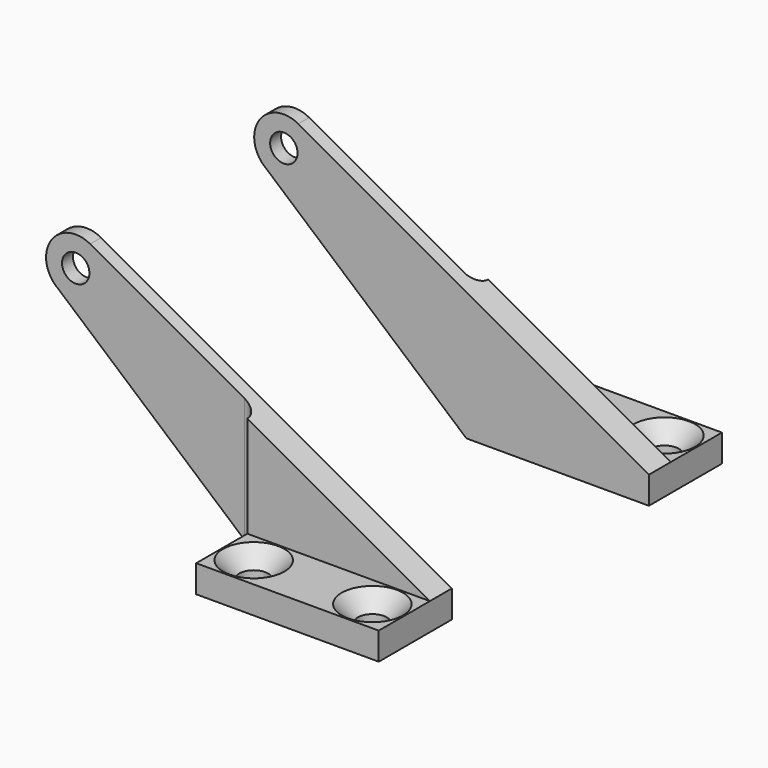
from build123d import *

# Parameters (mm, degrees)
F1_DEPTH        = 100
F3_R            = 3
F4_DEPTH        = 25
F6_DEPTH        = 6
F8_DEPTH        = 25
F10_DEPTH       = 3
F11_R           = 3
F12_D           = 6.3
F12_CSINK_D     = 13.44
F12_CSINK_ANGLE = 90


with BuildPart() as f1:
    # F0 (on Right) → F1 (new body)
    with BuildSketch(Plane.YZ):
        Polygon((0, 50), (0, 0), (50, 0), (50, 6), (6, 6), (6, 50), align=None)
    extrude(amount=-F1_DEPTH)

    # F3 (on face) → F4 (cut)
    with BuildSketch(Plane.XZ):
        with Locations((-80, 43)):
            Circle(F3_R)
    extrude(amount=-F4_DEPTH, mode=Mode.SUBTRACT)

    # F5 (on face) → F6 (cut)
    with BuildSketch(Plane(origin=(0, 0, 0), x_dir=(1, 0, 0), z_dir=(0, 0, -1))):
        Polygon((-40, -20), (-40, -6), (-100, -6), (-100, -50), (0, -50), (0, -20), align=None)
    extrude(amount=-F6_DEPTH, mode=Mode.SUBTRACT)

    # F7 (on face) → F8 (cut)
    with BuildSketch(Plane(origin=(0, 6, 0), x_dir=(-1, 0, 0), z_dir=(0, 1, 0))):
        with BuildLine():
            ThreePointArc((76.8438132159, 48.6822957494), (85.4830416797, 46.4908815418), (83.8130402948, 37.735902384))
            Line((83.8130402948, 37.735902384), (40, 0))
            Line((40, 0), (100, 0))
            Line((100, 0), (100, 50))
            Line((100, 50), (0, 50))
            Line((0, 50), (0, 6))
            Line((0, 6), (76.8438132159, 48.6822957494))
        make_face()
    extrude(amount=-F8_DEPTH, mode=Mode.SUBTRACT)

    # F9 (on face) → F10 (cut)
    with BuildSketch(Plane(origin=(0, 6, 0), x_dir=(-1, 0, 0), z_dir=(0, 1, 0))):
        Polygon((40, 28.2176875213), (40, 0), (106.4058691263, 23.9036325365), (83.2354798913, 63.7919008732), align=None)
    extrude(amount=-F10_DEPTH, mode=Mode.SUBTRACT)

    # F11
    f11_edges = [f1.edges().sort_by_distance(p)[0] for p in [
        (-40, 3, 14.108844),
    ]]
    fillet(f11_edges, radius=F11_R)

    # F12 (through all)
    with Locations(Plane.XY.offset(6)):
        with Locations((-7, 13), (-33, 13)):
            CounterSinkHole(F12_D / 2, F12_CSINK_D / 2, counter_sink_angle=F12_CSINK_ANGLE)


with BuildPart() as f14_1:
    # F14: instance of F1
    add(f1.part.mirror(Plane(origin=(-44.4244543303, -27, 20.0282334001), x_dir=(1, 0, 0), z_dir=(0, -1, 0))))


solid = Compound([f1.part, f14_1.part])
